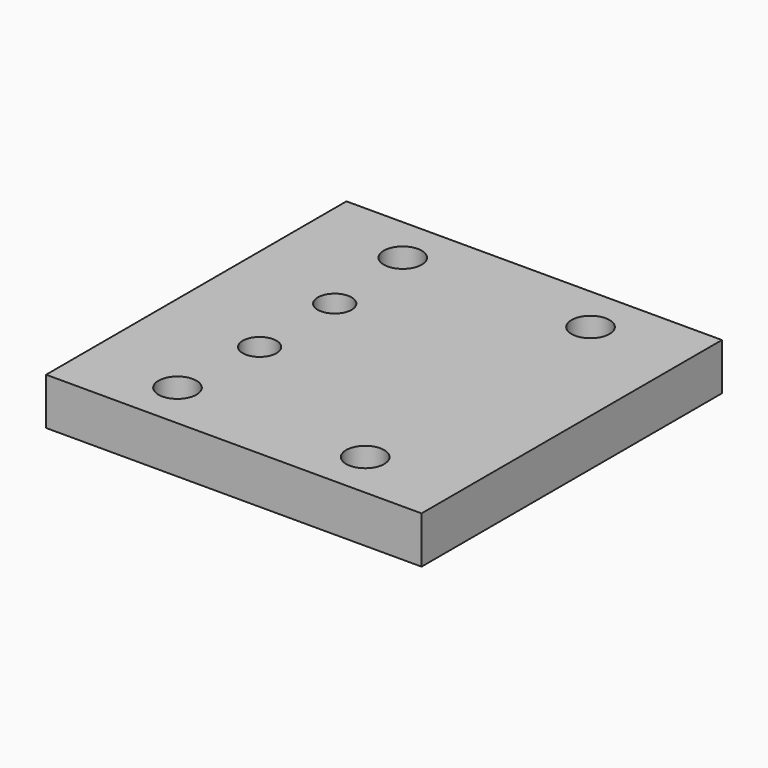
from build123d import *

# Parameters (mm, degrees)
F0_W     = 80
F0_H     = 80
F0_R     = 4.05
F0_R_2   = 2.025
F1_DEPTH = 10
F2_R     = 3.6
F3_DEPTH = 5


with BuildPart() as f1:
    # F0 (on Top) → F1 (new body)
    with BuildSketch(Plane.XY):
        with Locations((40, -40)):
            Rectangle(F0_W, F0_H)
        with Locations((20, -70)):
            Circle(F0_R, mode=Mode.SUBTRACT)
        with Locations((21.5, -50)):
            Circle(F0_R_2, mode=Mode.SUBTRACT)
        with Locations((60, -70)):
            Circle(F0_R, mode=Mode.SUBTRACT)
        with Locations((21.5, -30)):
            Circle(F0_R_2, mode=Mode.SUBTRACT)
        with Locations((20, -10)):
            Circle(F0_R, mode=Mode.SUBTRACT)
        with Locations((60, -10)):
            Circle(F0_R, mode=Mode.SUBTRACT)
    extrude(amount=F1_DEPTH)

    # F2 (on face) → F3 (cut)
    with BuildSketch(Plane.XY.offset(10)):
        with Locations((21.5, -30)):
            Circle(F2_R)
        with Locations((21.5, -50)):
            Circle(F2_R)
    extrude(amount=-F3_DEPTH, mode=Mode.SUBTRACT)


solid = f1.part
